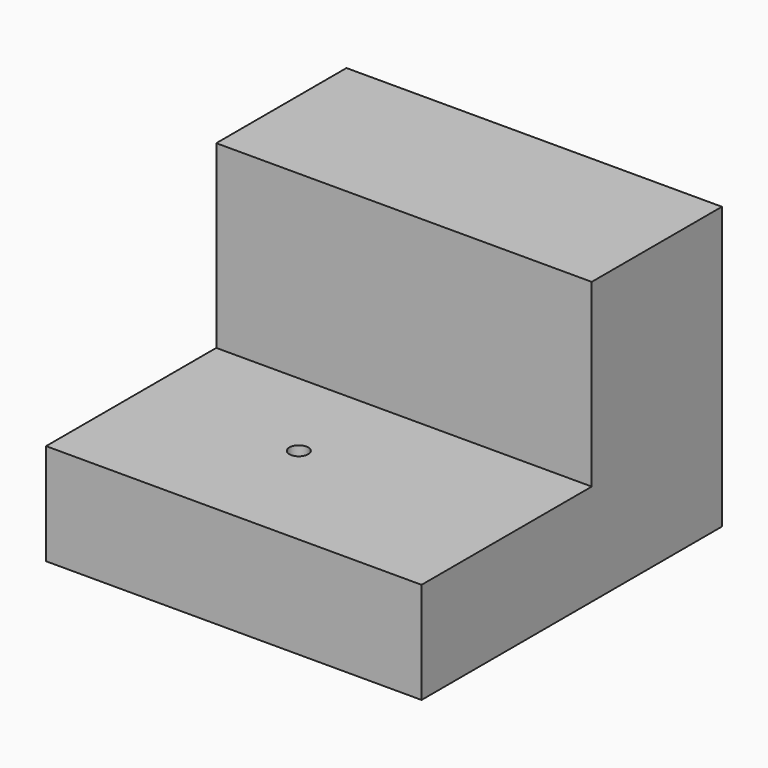
from build123d import *

# Parameters (mm, degrees)
F0_W     = 100
F0_H     = 100
F1_DEPTH = 100
F2_W     = 143.886555
F2_H     = 64.474793
F3_DEPTH = 48
F4_R     = 2.5
F5_DEPTH = 52.001
F6_W     = 124.598865
F6_H     = 122.024197
F7_DEPTH = 25


with BuildPart() as f1:
    # F0 (on Top) → F1 (new body)
    with BuildSketch(Plane.XY):
        with Locations((4.466346, 18.817768)):
            Rectangle(F0_W, F0_H)
    extrude(amount=F1_DEPTH)

    # F2 (on face) → F3 (cut)
    with BuildSketch(Plane.XY.offset(100)):
        with Locations((11.580882, -6.759453)):
            Rectangle(F2_W, F2_H)
    extrude(amount=-F3_DEPTH, mode=Mode.SUBTRACT)

    # F4 (on face) → F5 (cut, through all)
    with BuildSketch(Plane.XY.offset(52)):
        with Locations((-3.175375, 0)):
            Circle(F4_R)
    extrude(amount=-F5_DEPTH, mode=Mode.SUBTRACT)

    # F6 (on face) → F7 (cut)
    with BuildSketch(Plane(origin=(0, 0, 0), x_dir=(1, 0, 0), z_dir=(0, 0, -1))):
        with Locations((3.516642, -17.77996)):
            Rectangle(F6_W, F6_H)
    extrude(amount=-F7_DEPTH, mode=Mode.SUBTRACT)


solid = f1.part
